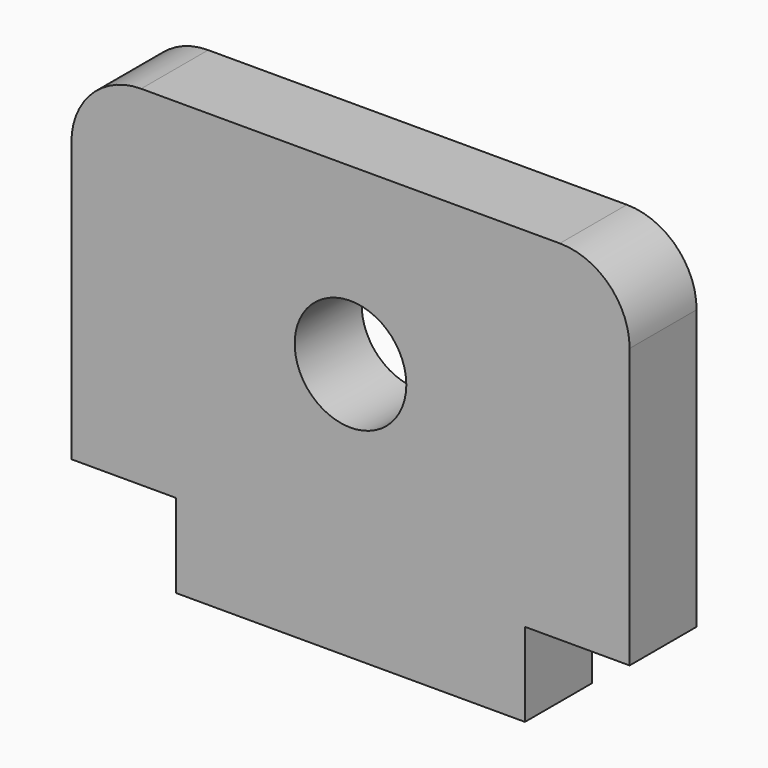
from build123d import *

# Parameters (mm, degrees)
F0_R     = 8
F1_DEPTH = 12
F2_R     = 10


with BuildPart() as f1:
    # F0 (on Front) → F1 (new body)
    with BuildSketch(Plane.XZ):
        Polygon((40, 0), (-40, 0), (-40, -50), (-25, -50), (-25, -62), (25, -62), (25, -50), (40, -50), align=None)
        with Locations((0, -25)):
            Circle(F0_R, mode=Mode.SUBTRACT)
    extrude(amount=F1_DEPTH)

    # F2
    f2_edges = [f1.edges().sort_by_distance(p)[0] for p in [
        (-40, -6, 0),
        (40, -6, 0),
    ]]
    fillet(f2_edges, radius=F2_R)


solid = f1.part
